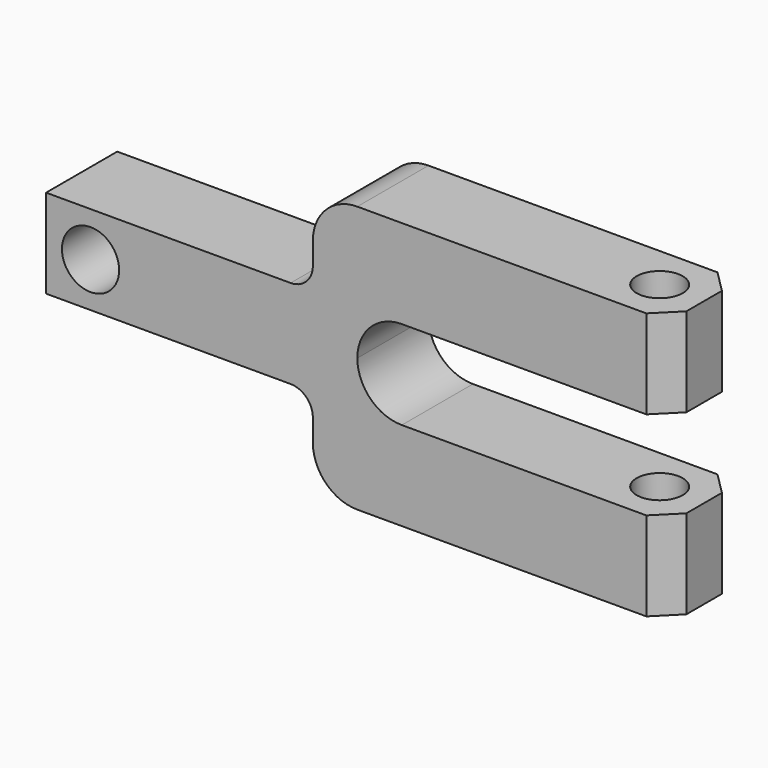
from build123d import *

# Parameters (mm, degrees)
F0_R     = 8.171292
F1_DEPTH = 12.7
F2_R     = 6.582327
F3_DEPTH = 127
F4_R     = 6.35
F5_SIZE  = 6.35


with BuildPart() as f1:
    # F0 (on Front) → F1 (new body, symmetric)
    with BuildSketch(Plane.XZ):
        with BuildLine():
            Line((0, 25.4), (0, 0))
            Line((0, 0), (76.2, 0))
            Line((76.2, 0), (76.2, -12.7))
            ThreePointArc((76.2, -12.7), (79.919744, -21.680256), (88.9, -25.4))
            Line((88.9, -25.4), (177.8, -25.4))
            Line((177.8, -25.4), (177.8, 0))
            Line((177.8, 0), (101.6, 0))
            ThreePointArc((101.6, 0), (92.619744, 3.719744), (88.9, 12.7))
            ThreePointArc((88.9, 12.7), (92.619744, 21.680256), (101.6, 25.4))
            Line((101.6, 25.4), (177.8, 25.4))
            Line((177.8, 25.4), (177.8, 50.8))
            Line((177.8, 50.8), (88.9, 50.8))
            ThreePointArc((88.9, 50.8), (79.919744, 47.080256), (76.2, 38.1))
            Line((76.2, 38.1), (76.2, 25.4))
            Line((76.2, 25.4), (0, 25.4))
        make_face()
        with Locations((12.7, 12.7)):
            Circle(F0_R, mode=Mode.SUBTRACT)
    extrude(amount=F1_DEPTH, both=True)

    # F2 (on face) → F3 (cut, symmetric)
    with BuildSketch(Plane.XY.offset(50.8)):
        with Locations((165.1, 0)):
            Circle(F2_R)
    extrude(amount=F3_DEPTH, both=True, mode=Mode.SUBTRACT)

    # F4
    f4_edges = [f1.edges().sort_by_distance(p)[0] for p in [
        (76.2, 0, 25.4),
        (76.2, 0, 0),
    ]]
    fillet(f4_edges, radius=F4_R)

    # F5
    f5_edges = [f1.edges().sort_by_distance(p)[0] for p in [
        (177.8, 12.7, 38.1),
        (177.8, -12.7, 38.1),
        (177.8, -12.7, -12.7),
        (177.8, 12.7, -12.7),
    ]]
    chamfer(f5_edges, length=F5_SIZE)


solid = f1.part
